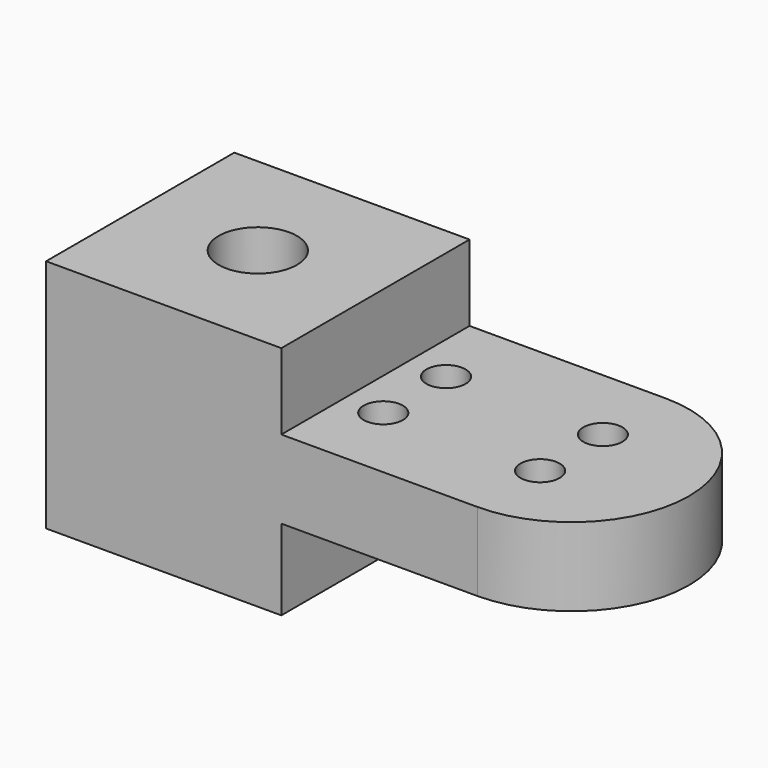
from build123d import *

# Parameters (mm, degrees)
F0_W     = 38.1
F0_H     = 38.1
F1_DEPTH = 38.1
F2_W     = 31.75
F2_H     = 12.7
F3_DEPTH = 38.1
F5_DEPTH = 12.7
F6_R     = 6.35
F6_R_2   = 3.175
F7_DEPTH = 38.101


with BuildPart() as f1:
    # F0 (on Front) → F1 (new body)
    with BuildSketch(Plane.XZ):
        with Locations((19.05, 19.05)):
            Rectangle(F0_W, F0_H)
    extrude(amount=F1_DEPTH)

    # F2 (on face) → F3 (join)
    with BuildSketch(Plane.XZ.offset(38.1)):
        with Locations((53.975, 19.435213)):
            Rectangle(F2_W, F2_H)
    extrude(amount=-F3_DEPTH)

    # F4 (on face) → F5 (join)
    with BuildSketch(Plane.XY.offset(25.785213)):
        with BuildLine():
            Line((69.85, 0), (69.85, -38.1))
            ThreePointArc((69.85, -38.1), (88.9, -19.05), (69.85, 0))
        make_face()
    extrude(amount=-F5_DEPTH)

    # F6 (on face) → F7 (cut, through all)
    with BuildSketch(Plane.XY.offset(38.1)):
        with Locations((19.05, -19.05)):
            Circle(F6_R)
        with Locations((44.45, -12.7)):
            Circle(F6_R_2)
        with Locations((44.45, -25.4)):
            Circle(F6_R_2)
        with Locations((69.85, -12.7)):
            Circle(F6_R_2)
        with Locations((69.85, -25.4)):
            Circle(F6_R_2)
    extrude(amount=-F7_DEPTH, mode=Mode.SUBTRACT)


solid = f1.part
